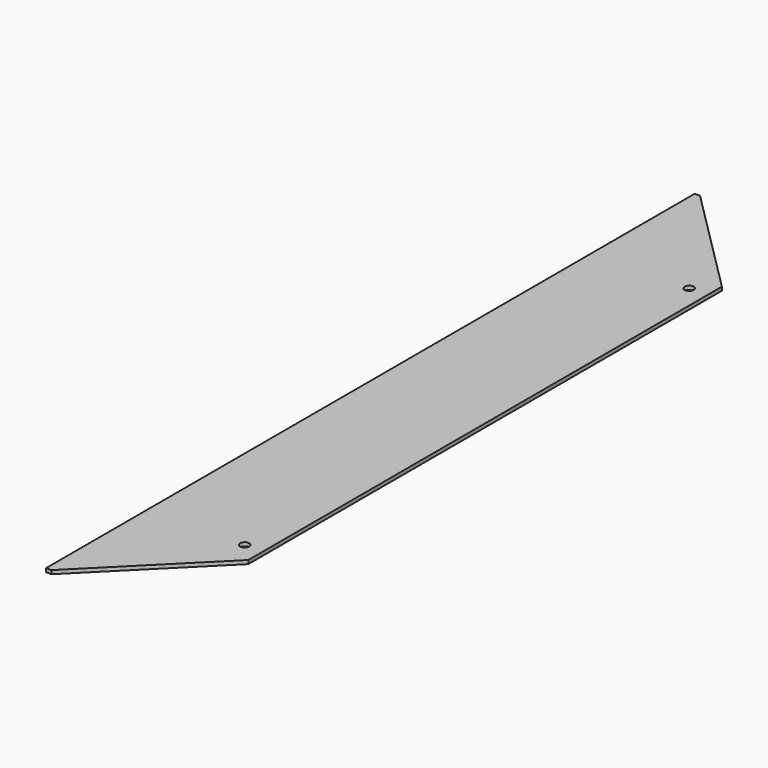
from build123d import *

# Parameters (mm, degrees)
SKETCH_R  = 2.5
PAD_DEPTH = 2


with BuildPart() as part:
    # Sketch → Pad (new body)
    with BuildSketch(Plane.XY):
        Polygon((-32.756639, 225.063393), (-29.756639, 225.063393), (30.243361, 165.063393), (30.243361, -159.936607), (-29.756639, -219.936607), (-32.756639, -219.936607), align=None)
        with Locations((20.243361, 155.063393)):
            Circle(SKETCH_R, mode=Mode.SUBTRACT)
        with Locations((20.243361, -149.936607)):
            Circle(SKETCH_R, mode=Mode.SUBTRACT)
    extrude(amount=PAD_DEPTH)


solid = part.part
